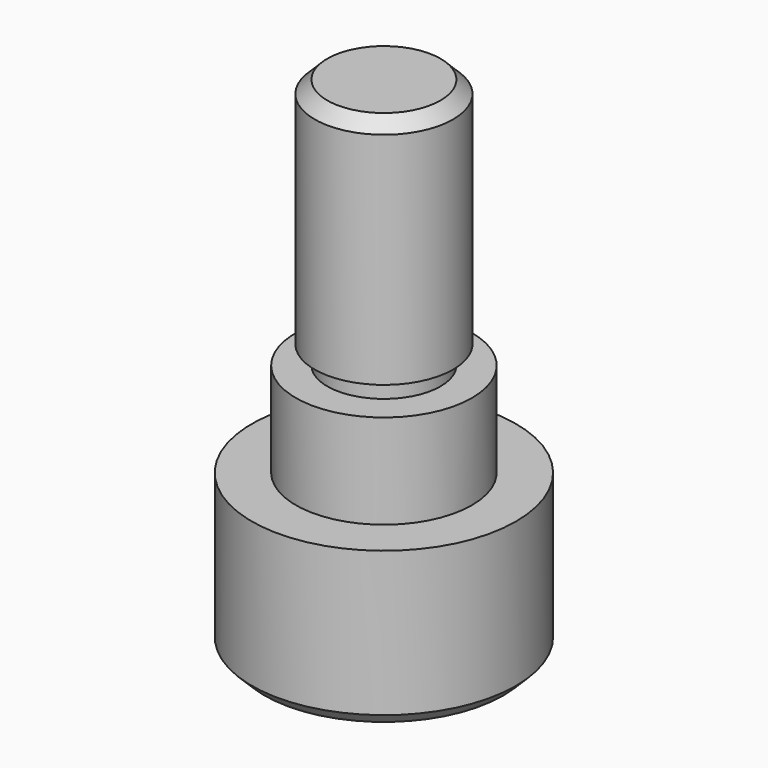
from build123d import *

# Parameters (mm, degrees)
F2_SIZE2 = 2
F2_SIZE  = 2


with BuildPart() as f1:
    # F0 (on Front) → F1 (revolve)
    with BuildSketch(Plane.XZ):
        Polygon((0, 80), (0, 0), (21, 0), (21, 25), (14, 25), (14, 40), (9, 40), (9, 43), (11, 43), (11, 80), align=None)
    revolve(axis=Axis((0, 0, 40), (0, 0, -1)))

    # F2
    f2_edges = [f1.edges().sort_by_distance(p)[0] for p in [
        (-11, 0, 80),
        (-21, 0, 0),
    ]]
    chamfer(f2_edges, length=F2_SIZE, length2=F2_SIZE2)


solid = f1.part
